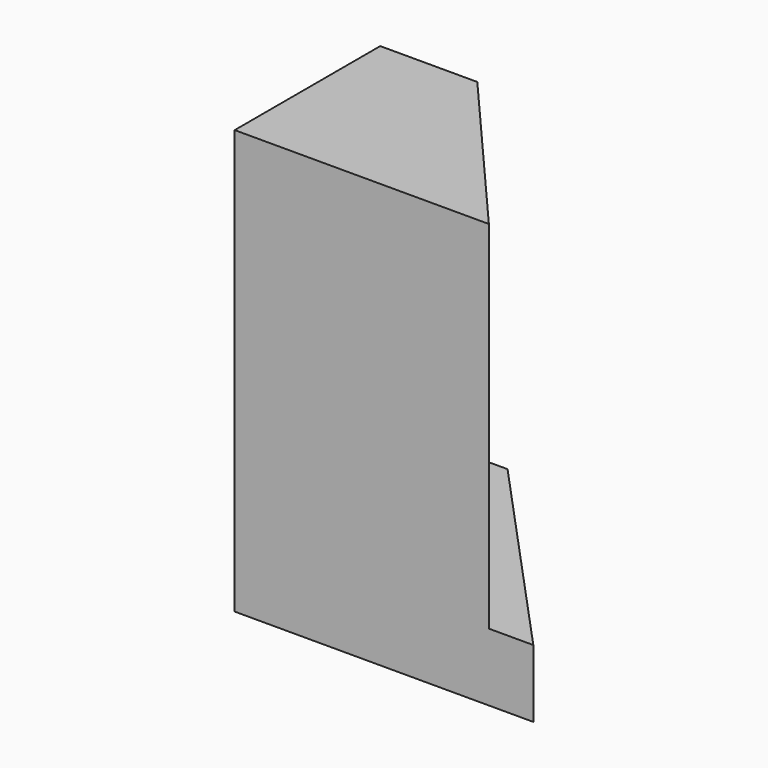
from build123d import *

# Parameters (mm, degrees)
F1_DEPTH = 132.08
F3_DEPTH = 110.998
F4_R     = 10.950567
F5_DEPTH = 77.47


with BuildPart() as f1:
    # F0 (on Top) → F1 (new body)
    with BuildSketch(Plane.XY):
        Polygon((-24.245454, 68.464547), (-24.245454, 0), (68.81091, 0), (6.003636, 68.464547), align=None)
    extrude(amount=F1_DEPTH)

    # F2 (on face) → F3 (cut)
    with BuildSketch(Plane.XY.offset(132.08)):
        Polygon((-24.245454, 68.464547), (-24.245454, 56.688186), (6.003636, 56.688186), (54.956365, 0), (68.81091, 0), (6.003636, 68.464547), align=None)
    extrude(amount=-F3_DEPTH, mode=Mode.SUBTRACT)

    # F4 (on face) → F5 (cut)
    with BuildSketch(Plane(origin=(-24.245454, 0, 0), x_dir=(0, -1, 0), z_dir=(-1, 0, 0))):
        with Locations((-28.183466, 61.193019)):
            Circle(F4_R)
    extrude(amount=-F5_DEPTH, mode=Mode.SUBTRACT)


solid = f1.part
